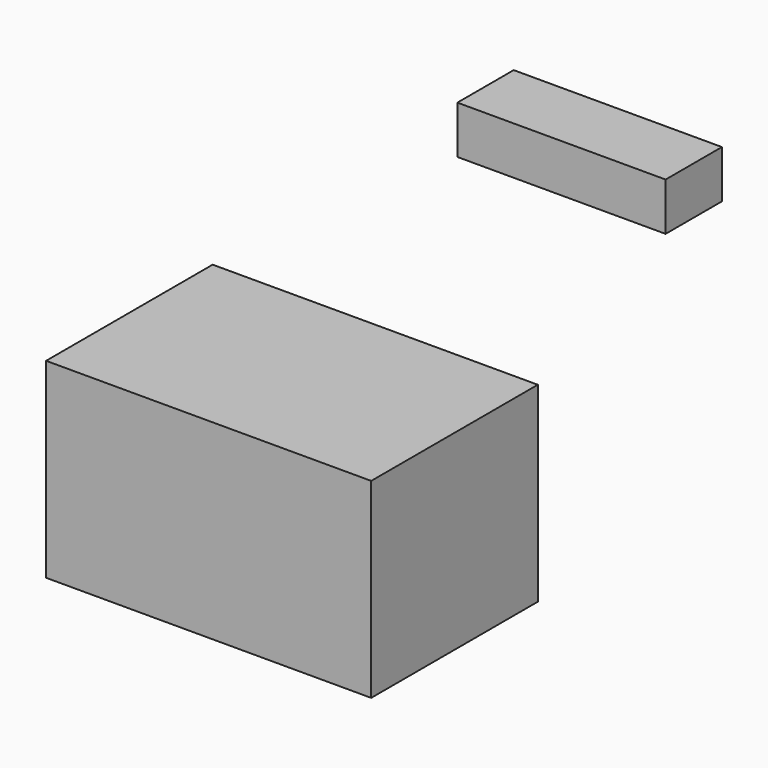
from build123d import *

# Parameters (mm, degrees)
F1_W          = 78.065972
F1_H          = 45.870643
F2_DEPTH      = 25
F2_DEPTH_BACK = 25
F0_W          = 16.901788
F0_H          = 11.489879
F3_DEPTH      = 25
F3_DEPTH_BACK = 25


with BuildPart() as f2:
    # F1 (on Front) → F2 (new body, two sides)
    with BuildSketch(Plane.XZ) as f2_sk:
        with Locations((-30.335421, -0.271651)):
            Rectangle(F1_W, F1_H)
    extrude(amount=F2_DEPTH)
    extrude(f2_sk.sketch, amount=-F2_DEPTH_BACK)


with BuildPart() as f3:
    # F0 (on Right) → F3 (new body, two sides)
    with BuildSketch(Plane.YZ) as f3_sk:
        with Locations((51.4402, 58.285677)):
            Rectangle(F0_W, F0_H)
    extrude(amount=F3_DEPTH)
    extrude(f3_sk.sketch, amount=-F3_DEPTH_BACK)


solid = Compound([f2.part, f3.part])
